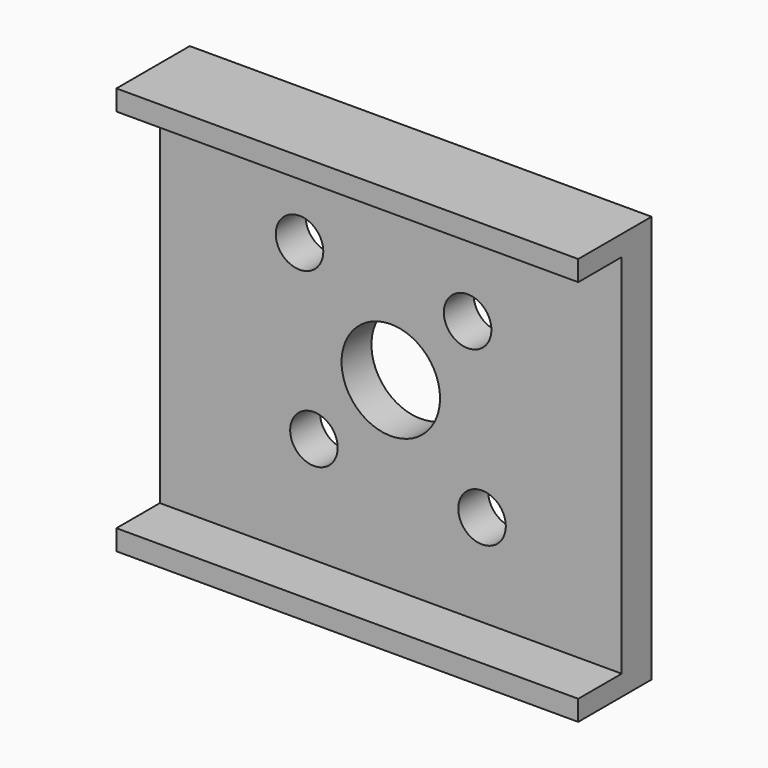
from build123d import *

# Parameters (mm, degrees)
F0_W     = 34
F0_H     = 30
F0_R     = 1.75
F0_R_2   = 3.625
F1_DEPTH = 2.75
F2_W     = 34
F2_H     = 1.5
F3_DEPTH = 4


with BuildPart() as f1:
    # F0 (on Front) → F1 (new body)
    with BuildSketch(Plane.XZ):
        Rectangle(F0_W, F0_H)
        with Locations((-5.656854, -5.656854)):
            Circle(F0_R, mode=Mode.SUBTRACT)
        with Locations((6.717514, -6.717514)):
            Circle(F0_R, mode=Mode.SUBTRACT)
        with Locations((-6.717514, 6.717514)):
            Circle(F0_R, mode=Mode.SUBTRACT)
        Circle(F0_R_2, mode=Mode.SUBTRACT)
        with Locations((5.656854, 5.656854)):
            Circle(F0_R, mode=Mode.SUBTRACT)
        Rectangle(F0_W, F0_H)
        with Locations((-5.656854, -5.656854)):
            Circle(F0_R, mode=Mode.SUBTRACT)
        with Locations((6.717514, -6.717514)):
            Circle(F0_R, mode=Mode.SUBTRACT)
        with Locations((-6.717514, 6.717514)):
            Circle(F0_R, mode=Mode.SUBTRACT)
        Circle(F0_R_2, mode=Mode.SUBTRACT)
        with Locations((5.656854, 5.656854)):
            Circle(F0_R, mode=Mode.SUBTRACT)
        Rectangle(F0_W, F0_H)
        with Locations((-5.656854, -5.656854)):
            Circle(F0_R, mode=Mode.SUBTRACT)
        with Locations((6.717514, -6.717514)):
            Circle(F0_R, mode=Mode.SUBTRACT)
        with Locations((-6.717514, 6.717514)):
            Circle(F0_R, mode=Mode.SUBTRACT)
        Circle(F0_R_2, mode=Mode.SUBTRACT)
        with Locations((5.656854, 5.656854)):
            Circle(F0_R, mode=Mode.SUBTRACT)
        Rectangle(F0_W, F0_H)
        with Locations((-5.656854, -5.656854)):
            Circle(F0_R, mode=Mode.SUBTRACT)
        with Locations((6.717514, -6.717514)):
            Circle(F0_R, mode=Mode.SUBTRACT)
        with Locations((-6.717514, 6.717514)):
            Circle(F0_R, mode=Mode.SUBTRACT)
        Circle(F0_R_2, mode=Mode.SUBTRACT)
        with Locations((5.656854, 5.656854)):
            Circle(F0_R, mode=Mode.SUBTRACT)
    extrude(amount=F1_DEPTH)

    # F2 (on face) → F3 (join)
    with BuildSketch(Plane.XZ.offset(2.75)):
        with Locations((0, 14.25)):
            Rectangle(F2_W, F2_H)
        with Locations((0, -14.25)):
            Rectangle(F2_W, F2_H)
    extrude(amount=F3_DEPTH)


solid = f1.part
